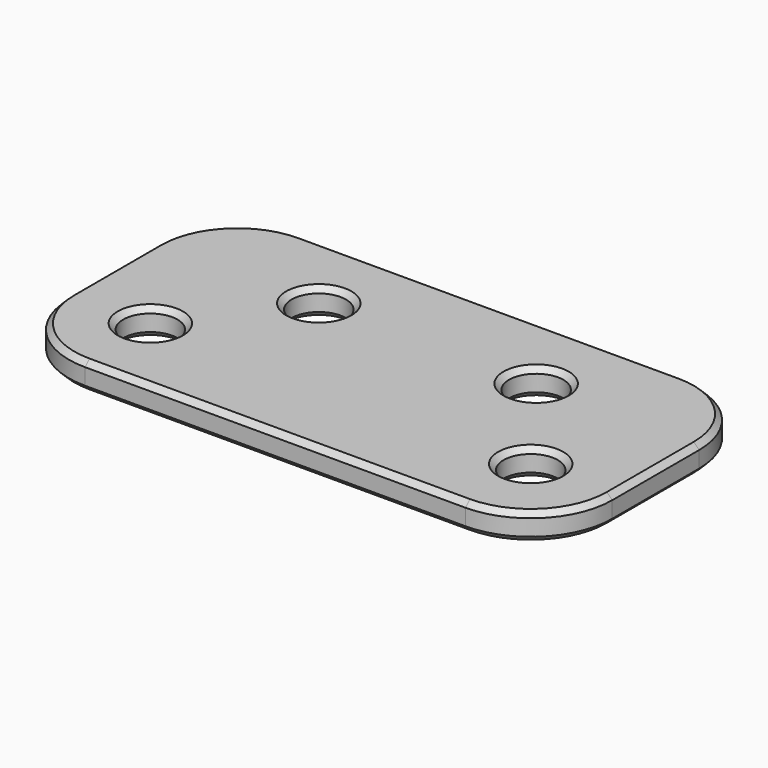
from build123d import *

# Parameters (mm, degrees)
F0_W     = 100
F0_H     = 50
F0_R     = 5
F1_DEPTH = 5
F2_R     = 15
F3_SIZE  = 1
F4_SIZE  = 1


with BuildPart() as f1:
    # F0 (on Top) → F1 (new body)
    with BuildSketch(Plane.XY):
        Rectangle(F0_W, F0_H)
        with Locations((-35, -10)):
            Circle(F0_R, mode=Mode.SUBTRACT)
        with Locations((35, -10)):
            Circle(F0_R, mode=Mode.SUBTRACT)
        with Locations((-20, 10)):
            Circle(F0_R, mode=Mode.SUBTRACT)
        with Locations((20, 10)):
            Circle(F0_R, mode=Mode.SUBTRACT)
    extrude(amount=F1_DEPTH)

    # F2
    f2_edges = [f1.edges().sort_by_distance(p)[0] for p in [
        (-50, 25, 2.5),
        (-50, -25, 2.5),
        (50, -25, 2.5),
        (50, 25, 2.5),
    ]]
    fillet(f2_edges, radius=F2_R)

    # F3
    f3_edges = [f1.edges().sort_by_distance(p)[0] for p in [
        (-25, 10, 5),
        (-40, -10, 5),
        (-25, 10, 0),
        (-40, -10, 0),
        (15, 10, 5),
        (15, 10, 0),
        (30, -10, 5),
        (30, -10, 0),
    ]]
    chamfer(f3_edges, length=F3_SIZE)

    # F4
    f4_edges = [f1.edges().sort_by_distance(p)[0] for p in [
        (-45.606602, 20.606602, 5),
        (-50, 0, 0),
    ]]
    chamfer(f4_edges, length=F4_SIZE)


solid = f1.part
